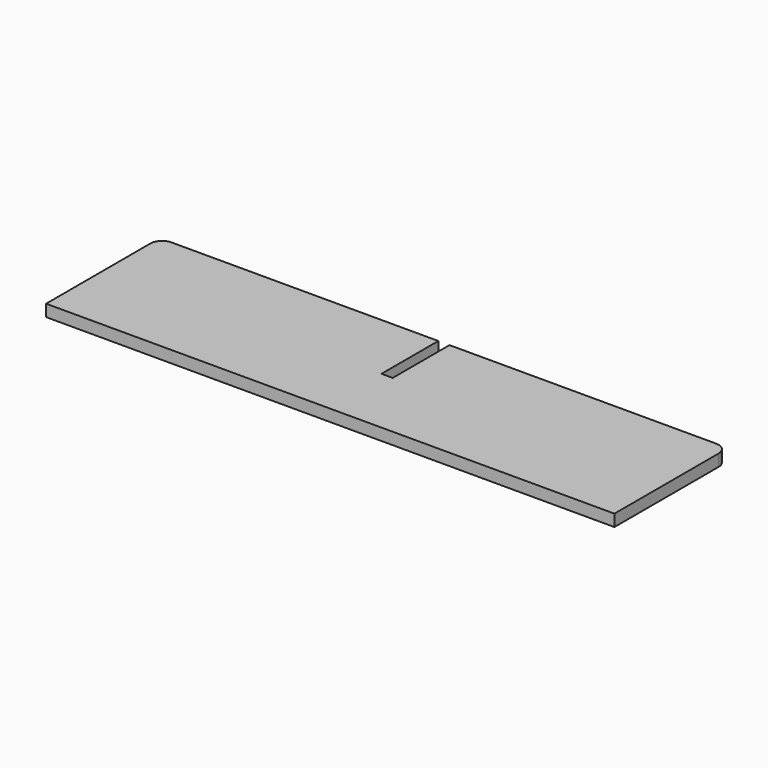
from build123d import *

# Parameters (mm, degrees)
F1_DEPTH = 6.35


with BuildPart() as f1:
    # F0 (on Top) → F1 (new body)
    with BuildSketch(Plane.XY):
        with BuildLine():
            Line((-3, 23.152184), (-146.05, 23.152184))
            ThreePointArc((-146.05, 23.152184), (-150.540128, 21.292312), (-152.4, 16.802184))
            Line((-152.4, 16.802184), (-152.4, -53.047816))
            Line((-152.4, -53.047816), (152.4, -53.047816))
            Line((152.4, -53.047816), (152.4, 16.802184))
            ThreePointArc((152.4, 16.802184), (150.540128, 21.292312), (146.05, 23.152184))
            Line((146.05, 23.152184), (3, 23.152184))
            Line((3, 23.152184), (3, -14.947816))
            Line((3, -14.947816), (-3, -14.947816))
            Line((-3, -14.947816), (-3, 23.152184))
        make_face()
    extrude(amount=F1_DEPTH)


solid = f1.part
